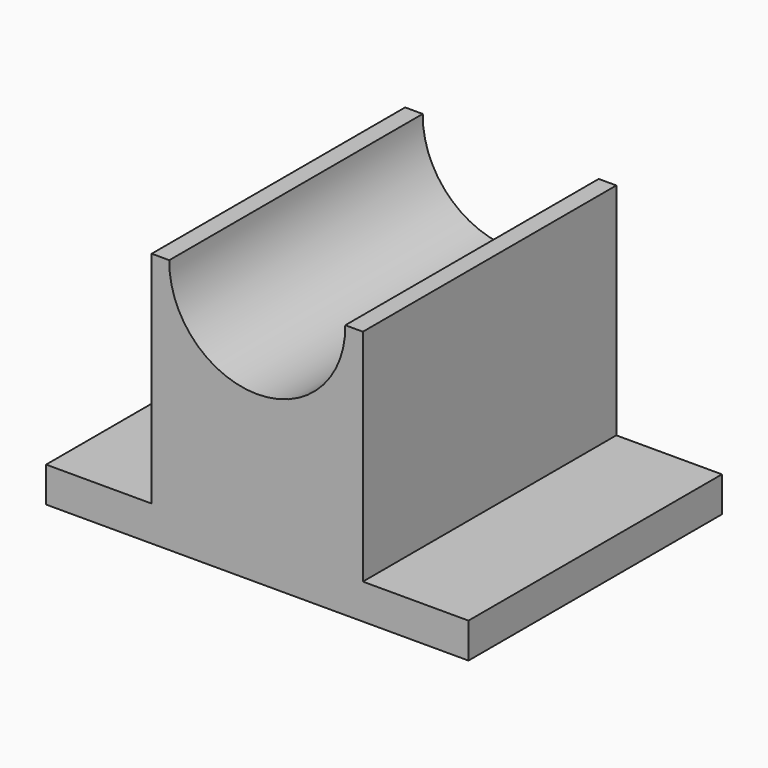
from build123d import *

# Parameters (mm, degrees)
F1_DEPTH = 114.3
F3_DEPTH = 114.3


with BuildPart() as f1:
    # F0 (on Front) → F1 (new body)
    with BuildSketch(Plane.XZ):
        Polygon((-76.098844, 12.7), (-76.098844, 0), (76.301156, 0), (76.301156, 12.7), (38.201156, 12.7), (38.201156, 92.075), (-37.998844, 92.075), (-37.998844, 12.7), align=None)
    extrude(amount=F1_DEPTH)

    # F2 (on face) → F3 (cut, through all)
    with BuildSketch(Plane.XZ.offset(114.3)):
        with BuildLine():
            Line((31.851156, 92.075), (-31.648844, 92.075))
            ThreePointArc((-31.648844, 92.075), (0.101156, 59.82141), (31.851156, 92.075))
        make_face()
    extrude(amount=-F3_DEPTH, mode=Mode.SUBTRACT)


solid = f1.part
